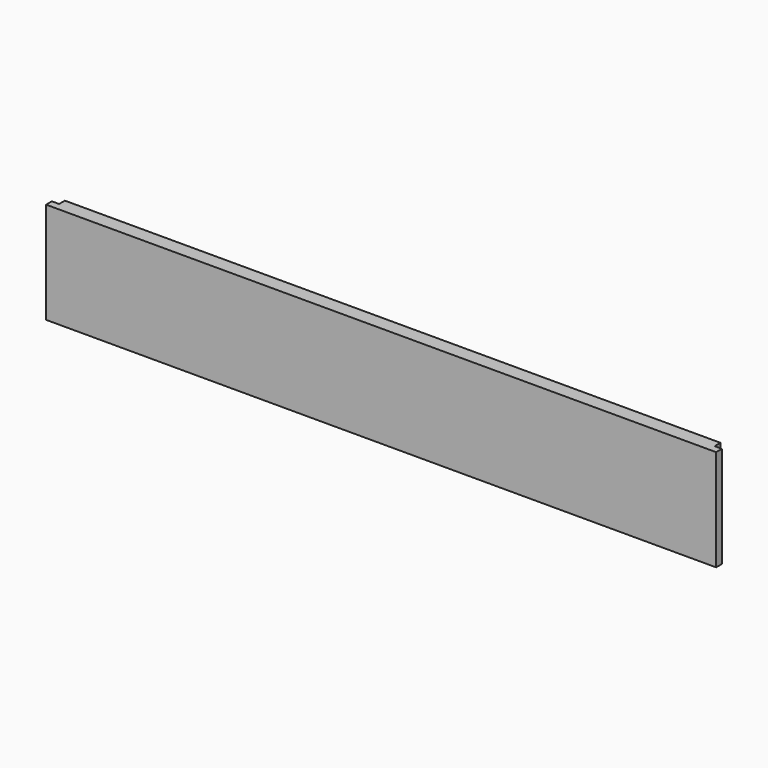
from build123d import *

# Parameters (mm, degrees)
SKETCH_W        = 12.7
SKETCH_H        = 88.9
PAD_DEPTH       = 587.3
SKETCH001_W     = 6.35
SKETCH001_H     = 12.7
POCKET_DEPTH    = 587.301
SKETCH002_W     = 6.35
SKETCH002_H     = 6.35
POCKET001_DEPTH = 88.901


with BuildPart() as part:
    # Sketch → Pad (new body)
    with BuildSketch(Plane.YZ):
        with Locations((6.35, 44.45)):
            Rectangle(SKETCH_W, SKETCH_H)
    extrude(amount=PAD_DEPTH)

    # Sketch001 (on Face6 of Pad) → Pocket (cut, through all)
    with BuildSketch(Plane.YZ.offset(587.3)):
        with Locations((9.525, 12.7)):
            Rectangle(SKETCH001_W, SKETCH001_H)
    extrude(amount=-POCKET_DEPTH, mode=Mode.SUBTRACT)

    # Sketch002 (on Face6 of Pocket) → Pocket001 (cut, through all)
    with BuildSketch(Plane(origin=(0, 0, 88.9), x_dir=(0, -1, 0), z_dir=(0, 0, 1))):
        with Locations((-9.525, 584.125)):
            Rectangle(SKETCH002_W, SKETCH002_H)
        with Locations((-9.525, 3.175)):
            Rectangle(SKETCH002_W, SKETCH002_H)
    extrude(amount=-POCKET001_DEPTH, mode=Mode.SUBTRACT)


solid = part.part
